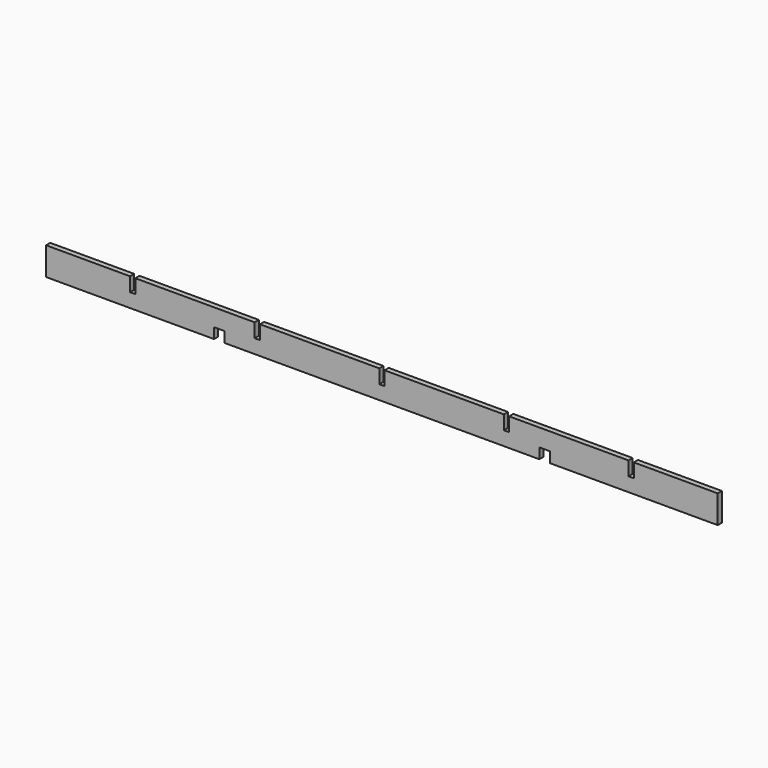
from build123d import *

# Parameters (mm, degrees)
F1_DEPTH = 101.6
F2_W     = 38.1
F2_H     = 38.1
F3_DEPTH = 25.4
F4_DEPTH = 25.4
F2_W_2   = 19.05
F2_H_2   = 50.8
F5_DEPTH = 25.4


with BuildPart() as f1:
    # F0 (on Top) → F1 (new body)
    with BuildSketch(Plane.XY):
        Polygon((1219.2, -9.525), (1219.2, 0), (1219.2, 9.525), (-1219.2, 9.525), (-1219.2, 0), (-1219.2, -9.525), align=None)
    extrude(amount=-F1_DEPTH)

    # F2 (on face) → F3 (cut)
    with BuildSketch(Plane.XZ.offset(9.525)):
        with Locations((590.55, -82.55)):
            Rectangle(F2_W, F2_H)
    extrude(amount=-F3_DEPTH, mode=Mode.SUBTRACT)

    # F2 (on face) → F4 (cut)
    with BuildSketch(Plane.XZ.offset(9.525)):
        with Locations((-590.55, -82.55)):
            Rectangle(F2_W, F2_H)
    extrude(amount=-F4_DEPTH, mode=Mode.SUBTRACT)

    # F2 (on face) → F5 (cut)
    with BuildSketch(Plane.XZ.offset(9.525)):
        with Locations((-904.875, -25.4)):
            Rectangle(F2_W_2, F2_H_2)
        Polygon((-452.4375, 0), (-461.9625, 0), (-461.9625, -50.8), (-442.9125, -50.8), (-442.9125, 0), align=None)
        Polygon((9.525, -50.8), (9.525, 0), (0, 0), (-9.525, 0), (-9.525, -50.8), (0, -50.8), align=None)
        Polygon((461.9625, -50.8), (461.9625, 0), (452.4375, 0), (442.9125, 0), (442.9125, -50.8), align=None)
        with Locations((904.875, -25.4)):
            Rectangle(F2_W_2, F2_H_2)
    extrude(amount=-F5_DEPTH, mode=Mode.SUBTRACT)


solid = f1.part
